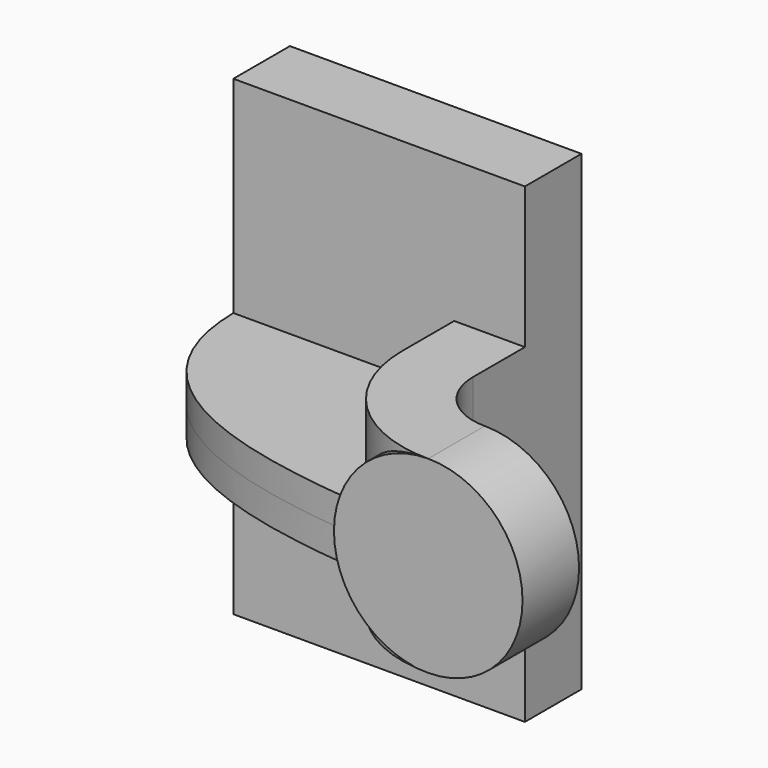
from build123d import *

# Parameters (mm, degrees)
F1_DEPTH = 63.5
F2_DEPTH = 25.4
F3_DEPTH = 7.9375
F0_W     = 25.4
F0_H     = 19.0500014678


with BuildPart() as f1:
    # F0 (on Top) → F1 (new body, symmetric)
    with BuildSketch(Plane.XY):
        Polygon((39.2749942839, 9.525), (-39.2749942839, 9.525), (-39.2749942839, -9.525), (20.2249928161, -9.525), (39.2749942839, -9.525), align=None)
    extrude(amount=F1_DEPTH, both=True)

    # F0 (on Top) → F2 (join, symmetric)
    with BuildSketch(Plane.XY):
        with BuildLine():
            Line((39.2749942839, -27.0002), (39.2749942839, -9.525))
            Line((39.2749942839, -9.525), (20.2249928161, -9.525))
            Line((20.2249928161, -9.525), (20.2249928161, -27.0002))
            ThreePointArc((20.2249928161, -27.0002), (29.3367398508, -50.5253274831), (51.9175683258, -61.7752938165))
            add(Edge.make_bspline(
                [(51.9175683258, -61.7752938165), (52.9952696281, -61.8278519925), (54.0729461799, -61.8776803226), (55.1499942839, -61.9252014678)],
                knots=[105.4761775762, 105.4761775762, 105.4761775762, 105.4761775762, 107.990090193, 107.990090193, 107.990090193, 107.990090193], degree=3))
            Line((55.1499942839, -61.9252014678), (55.1499942839, -42.8752))
            ThreePointArc((55.1499942839, -42.8752), (43.9246741326, -38.2255201513), (39.2749942839, -27.0002))
        make_face()
    extrude(amount=F2_DEPTH, both=True)

    # F0 (on Top) → F3 (join, symmetric)
    with BuildSketch(Plane.XY):
        with BuildLine():
            Line((20.2249928161, -9.525), (-39.2749942839, -9.525))
            add(Edge.make_bspline(
                [(-39.2749942839, -9.525), (-38.560182874, -52.5593411678), (6.7004779731, -59.5701115574), (51.9175683258, -61.7752938165)],
                knots=[0, 0, 0, 0, 105.4761775762, 105.4761775762, 105.4761775762, 105.4761775762], degree=3))
            ThreePointArc((51.9175683258, -61.7752938165), (29.3367398508, -50.5253274831), (20.2249928161, -27.0002))
            Line((20.2249928161, -27.0002), (20.2249928161, -9.525))
        make_face()
    extrude(amount=F3_DEPTH, both=True)

    # F0 (on Top) → F4 (revolve)
    with BuildSketch(Plane.XY):
        with Locations((67.8499942839, -52.4002007339)):
            Rectangle(F0_W, F0_H)
    revolve(axis=Axis((55.1499942839, -52.3875, 0), (0, -1, 0)))


solid = f1.part
